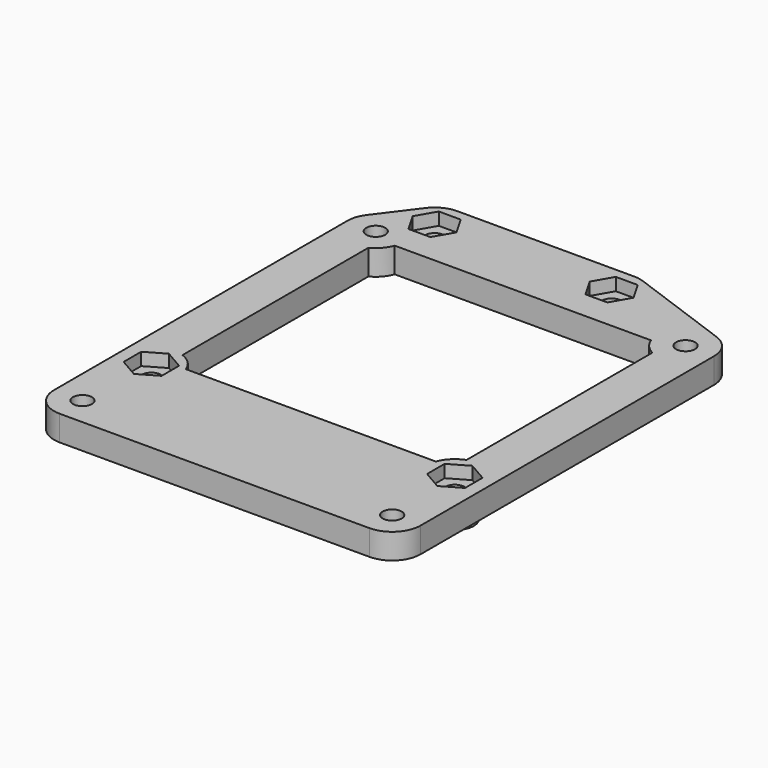
from build123d import *

# Parameters (mm, degrees)
SKETCH_R        = 1.5
PAD_DEPTH       = 2
PAD_DEPTH_BACK  = 2
SKETCH001_R     = 3
SKETCH001_R_2   = 1.5
POCKET_DEPTH    = 2
SKETCH002_R     = 3
SKETCH002_R_2   = 1.5
PAD001_DEPTH    = 4
SKETCH003_R     = 1.5
POCKET001_DEPTH = 5


with BuildPart() as part:
    # Sketch → Pad (new body, two sides)
    with BuildSketch(Plane.XY) as pad_sk:
        with BuildLine():
            ThreePointArc((29, 29), (28.185804, 31.581637), (26.037844, 33.22907))
            Line((9.537844, 39.22907), (26.037844, 33.22907))
            ThreePointArc((9.537844, 39.22907), (8.780763, 39.43175), (8, 39.5))
            Line((-20, 39.5), (8, 39.5))
            ThreePointArc((-20, 39.5), (-22.012461, 39.024922), (-23.6, 37.7))
            Line((-28.1, 31.7), (-23.6, 37.7))
            ThreePointArc((-28.1, 31.7), (-28.769075, 30.423025), (-29, 29))
            Line((-29, 29), (-29, -29))
            ThreePointArc((-29, -29), (-27.68198, -32.181981), (-24.5, -33.5))
            Line((24.5, -33.5), (-24.5, -33.5))
            ThreePointArc((24.5, -33.5), (27.681981, -32.181981), (29, -29))
            Line((29, -29), (29, 29))
        make_face()
        with Locations((-24.5, 29)):
            Circle(SKETCH_R, mode=Mode.SUBTRACT)
        with Locations((-20, 35)):
            Circle(SKETCH_R, mode=Mode.SUBTRACT)
        with Locations((8, 35)):
            Circle(SKETCH_R, mode=Mode.SUBTRACT)
        with Locations((24.5, 29)):
            Circle(SKETCH_R, mode=Mode.SUBTRACT)
        with Locations((24.5, -29)):
            Circle(SKETCH_R, mode=Mode.SUBTRACT)
        with Locations((-24, -16)):
            Circle(SKETCH_R, mode=Mode.SUBTRACT)
        with Locations((-24.5, -29)):
            Circle(SKETCH_R, mode=Mode.SUBTRACT)
        with Locations((24, -16)):
            Circle(SKETCH_R, mode=Mode.SUBTRACT)
        with BuildLine():
            ThreePointArc((-22.460909, 24.988503), (-21.131137, 26.016585), (-20.271383, 27.460909))
            Line((20.271383, 27.460909), (-20.271383, 27.460909))
            ThreePointArc((20.271383, 27.460909), (21.131137, 26.016585), (22.460909, 24.988503))
            Line((22.460909, -11.771383), (22.460909, 24.988503))
            ThreePointArc((22.460909, -11.771383), (20.818019, -12.818019), (19.771383, -14.460909))
            Line((-19.771383, -14.460909), (19.771383, -14.460909))
            ThreePointArc((-19.771383, -14.460909), (-20.818019, -12.818019), (-22.460909, -11.771383))
            Line((-22.460909, 24.988503), (-22.460909, -11.771383))
        make_face(mode=Mode.SUBTRACT)
    extrude(amount=PAD_DEPTH)
    extrude(pad_sk.sketch, amount=-PAD_DEPTH_BACK)

    # Sketch001 → Pocket (cut)
    with BuildSketch(Plane.XY):
        with Locations((-24.5, -29)):
            Circle(SKETCH001_R)
        with Locations((-24.5, -29)):
            Circle(SKETCH001_R_2, mode=Mode.SUBTRACT)
        with Locations((24.5, -29)):
            Circle(SKETCH001_R)
        with Locations((24.5, -29)):
            Circle(SKETCH001_R_2, mode=Mode.SUBTRACT)
        with Locations((24.5, 29)):
            Circle(SKETCH001_R)
        with Locations((24.5, 29)):
            Circle(SKETCH001_R_2, mode=Mode.SUBTRACT)
        with Locations((-24.5, 29)):
            Circle(SKETCH001_R)
        with Locations((-24.5, 29)):
            Circle(SKETCH001_R_2, mode=Mode.SUBTRACT)
    extrude(amount=-POCKET_DEPTH, mode=Mode.SUBTRACT)

    # Sketch002 → Pad001 (join)
    with BuildSketch(Plane.XY):
        with Locations((-20, 35)):
            Circle(SKETCH002_R)
        with Locations((-20, 35)):
            Circle(SKETCH002_R_2, mode=Mode.SUBTRACT)
        with Locations((8, 35)):
            Circle(SKETCH002_R)
        with Locations((8, 35)):
            Circle(SKETCH002_R_2, mode=Mode.SUBTRACT)
        with Locations((24, -16)):
            Circle(SKETCH002_R)
        with Locations((24, -16)):
            Circle(SKETCH002_R_2, mode=Mode.SUBTRACT)
        with Locations((-24, -16)):
            Circle(SKETCH002_R)
        with Locations((-24, -16)):
            Circle(SKETCH002_R_2, mode=Mode.SUBTRACT)
    extrude(amount=-PAD001_DEPTH)

    # Sketch003 → Pocket001 (cut)
    with BuildSketch(Plane.XY):
        Polygon((-16.535898, 35), (-18.267949, 38), (-21.732051, 38), (-23.464102, 35), (-21.732051, 32), (-18.267949, 32), align=None)
        with Locations((-20, 35)):
            Circle(SKETCH003_R, mode=Mode.SUBTRACT)
        Polygon((11.464102, 35), (9.732051, 38), (6.267949, 38), (4.535898, 35), (6.267949, 32), (9.732051, 32), align=None)
        with Locations((8, 35)):
            Circle(SKETCH003_R, mode=Mode.SUBTRACT)
        Polygon((24, -19.464102), (27, -17.732051), (27, -14.267949), (24, -12.535898), (21, -14.267949), (21, -17.732051), align=None)
        with Locations((24, -16)):
            Circle(SKETCH003_R, mode=Mode.SUBTRACT)
        Polygon((-21, -17.732051), (-21, -14.267949), (-24, -12.535898), (-27, -14.267949), (-27, -17.732051), (-24, -19.464102), align=None)
        with Locations((-24, -16)):
            Circle(SKETCH003_R, mode=Mode.SUBTRACT)
    extrude(amount=POCKET001_DEPTH, mode=Mode.SUBTRACT)


solid = part.part
